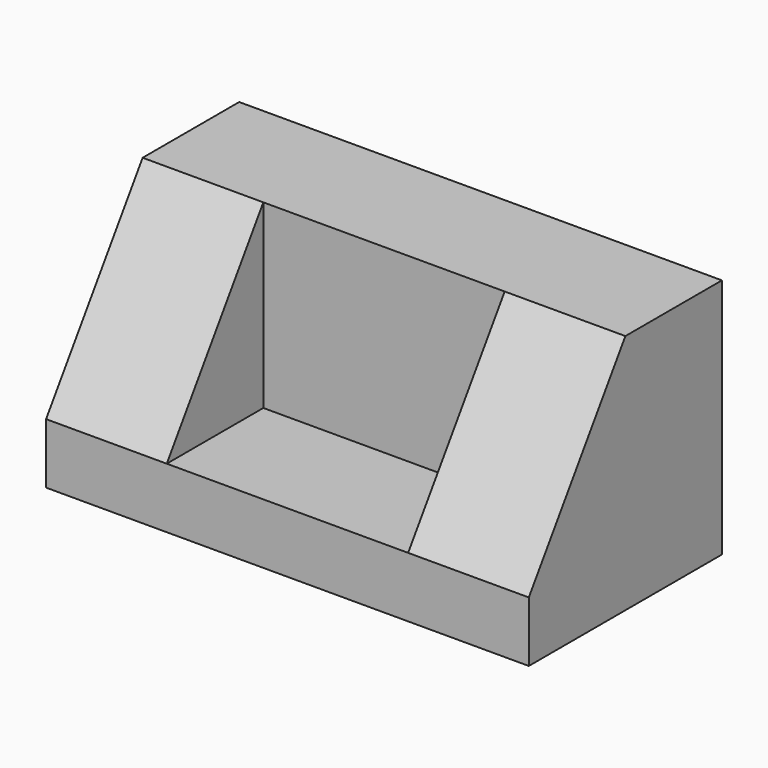
from build123d import *

# Parameters (mm, degrees)
F0_W     = 203.2
F0_H     = 25.4
F1_DEPTH = 101.6
F2_W     = 50.8
F2_H     = 76.2
F3_DEPTH = 203.2
F5_DEPTH = 50.8
F7_DEPTH = 50.8


with BuildPart() as f1:
    # F0 (on Front) → F1 (new body)
    with BuildSketch(Plane.XZ):
        with Locations((-101.6, 12.7)):
            Rectangle(F0_W, F0_H)
        with Locations((-101.6, 12.7)):
            Rectangle(F0_W, F0_H)
    extrude(amount=F1_DEPTH)

    # F2 (on Right) → F3 (join)
    with BuildSketch(Plane.YZ):
        with Locations((-25.4, 63.5)):
            Rectangle(F2_W, F2_H)
    extrude(amount=-F3_DEPTH)

    # F4 (on face) → F5 (join)
    with BuildSketch(Plane.YZ):
        Polygon((-50.8, 25.4), (-50.8, 101.6), (-101.6, 25.4), align=None)
    extrude(amount=-F5_DEPTH)

    # F6 (on face) → F7 (join)
    with BuildSketch(Plane(origin=(-203.2, 0, 0), x_dir=(0, -1, 0), z_dir=(-1, 0, 0))):
        Polygon((101.6, 25.4), (50.8, 101.6), (50.8, 25.4), align=None)
    extrude(amount=-F7_DEPTH)


solid = f1.part
